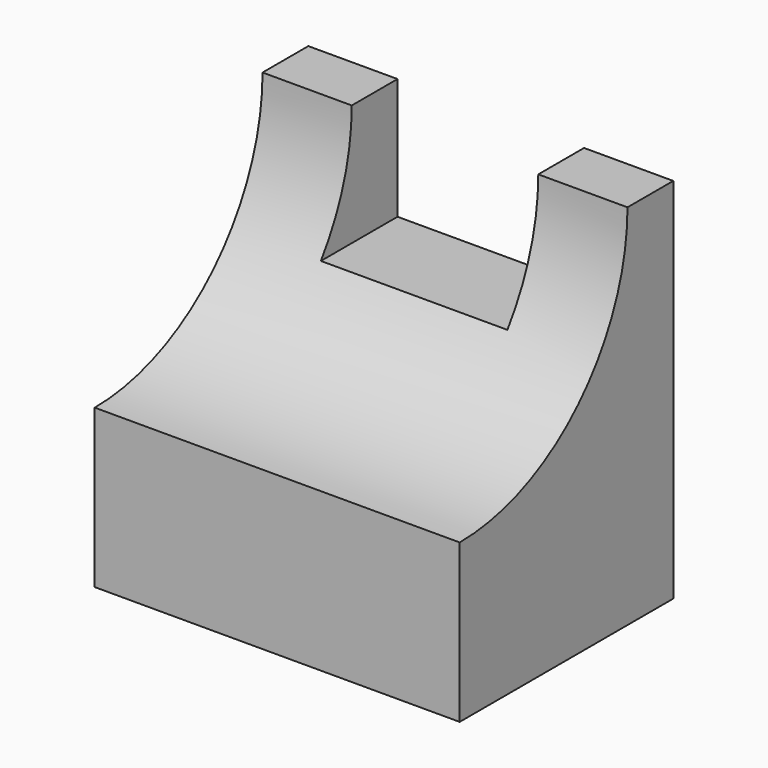
from build123d import *

# Parameters (mm, degrees)
F1_DEPTH = 101.6
F2_W     = 51.9315649927
F2_H     = 33.7482951581
F3_DEPTH = 74.3230895529


with BuildPart() as f1:
    # F0 (on Right) → F1 (new body)
    with BuildSketch(Plane.YZ):
        with BuildLine():
            Line((37.1610447764, -51.1912330985), (37.1610447764, 51.1912330985))
            Line((37.1610447764, 51.1912330985), (21.2348811328, 51.1912330985))
            ThreePointArc((21.2348811328, 51.1912330985), (4.1311104277, 9.8990778944), (-37.1610447764, -7.2046928108))
            Line((-37.1610447764, -7.2046928108), (-37.1610447764, -51.1912330985))
            Line((-37.1610447764, -51.1912330985), (37.1610447764, -51.1912330985))
        make_face()
    extrude(amount=F1_DEPTH)

    # F2 (on face) → F3 (cut, through all)
    with BuildSketch(Plane(origin=(0, 37.1610447764, 0), x_dir=(-1, 0, 0), z_dir=(0, 1, 0))):
        with Locations((-50.8, 34.3170855194)):
            Rectangle(F2_W, F2_H)
        with Locations((-50.8, 68.0653806776)):
            Rectangle(F2_W, F2_H)
    extrude(amount=-F3_DEPTH, mode=Mode.SUBTRACT)


solid = f1.part
